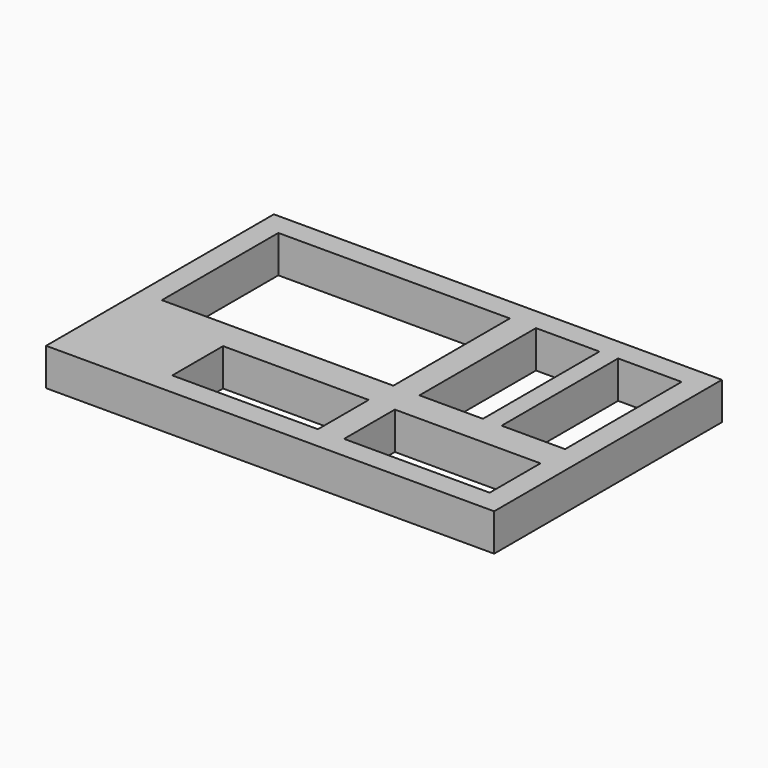
from build123d import *

# Parameters (mm, degrees)
F0_W     = 304.8
F0_H     = 193.675
F0_W_2   = 99.06
F0_H_2   = 43.18
F0_W_3   = 157.48
F0_H_3   = 99.06
F0_W_4   = 43.18
F1_DEPTH = 25.4


with BuildPart() as f1:
    # F0 (on Top) → F1 (new body)
    with BuildSketch(Plane.XY):
        with Locations((105.199373, 47.892438)):
            Rectangle(F0_W, F0_H)
        with Locations((75.989373, -12.115062)):
            Rectangle(F0_W_2, F0_H_2, mode=Mode.SUBTRACT)
        with Locations((192.829373, -12.115062)):
            Rectangle(F0_W_2, F0_H_2, mode=Mode.SUBTRACT)
        with Locations((46.779373, 79.959938)):
            Rectangle(F0_W_3, F0_H_3, mode=Mode.SUBTRACT)
        with Locations((164.889373, 79.959938)):
            Rectangle(F0_W_4, F0_H_3, mode=Mode.SUBTRACT)
        with Locations((220.769373, 79.959938)):
            Rectangle(F0_W_4, F0_H_3, mode=Mode.SUBTRACT)
    extrude(amount=F1_DEPTH)


solid = f1.part
